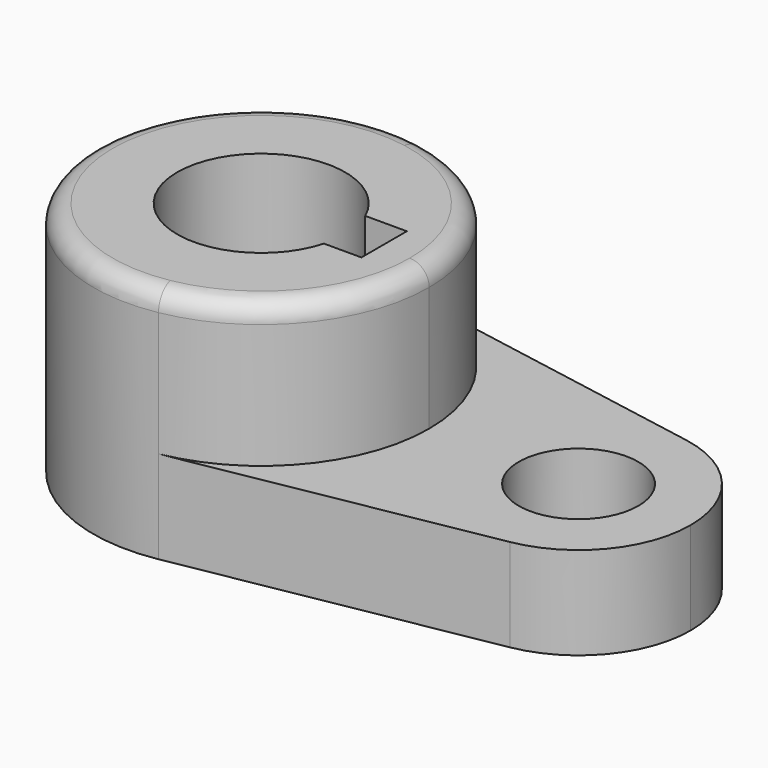
from build123d import *

# Parameters (mm, degrees)
F1_DEPTH = 40.2336
F0_R     = 10.16
F2_DEPTH = 15.7734
F3_R     = 3.302


with BuildPart() as f1:
    # F0 (on Top) → F1 (new body)
    with BuildSketch(Plane.XY):
        with BuildLine():
            ThreePointArc((-25.836789, -21.39759), (-8.963412, -11.60731), (-2.304436, 6.728951))
            ThreePointArc((-2.304436, 6.728951), (-8.963412, 25.065213), (-25.836789, 34.855493))
            ThreePointArc((-25.836789, 34.855493), (-59.454436, 6.728951), (-25.836789, -21.39759))
        make_face()
        with BuildLine():
            ThreePointArc((-17.120772, 2.877743), (-45.129325, 5.692937), (-17.822504, 12.529743))
            Line((-17.822504, 12.529743), (-10.74808, 12.529743))
            Line((-10.74808, 12.529743), (-10.74808, 2.877743))
            Line((-10.74808, 2.877743), (-17.120772, 2.877743))
        make_face(mode=Mode.SUBTRACT)
    extrude(amount=F1_DEPTH)

    # F3
    f3_edges = [f1.edges().sort_by_distance(p)[0] for p in [
        (-35.922083, 34.855493, 40.2336),
    ]]
    fillet(f3_edges, radius=F3_R)


with BuildPart() as f2:
    # F0 (on Top) → F2 (new body)
    with BuildSketch(Plane.XY):
        with BuildLine():
            ThreePointArc((-25.836789, 34.855493), (-8.963412, 25.065213), (-2.304436, 6.728951))
            ThreePointArc((-2.304436, 6.728951), (-8.963412, -11.60731), (-25.836789, -21.39759))
            Line((-25.836789, -21.39759), (26.457329, -12.022076))
            ThreePointArc((26.457329, -12.022076), (4.045564, 6.728951), (26.457329, 25.479979))
            Line((26.457329, 25.479979), (-25.836789, 34.855493))
        make_face()
        with BuildLine():
            ThreePointArc((42.145564, 6.728951), (37.706247, 18.953126), (26.457329, 25.479979))
            ThreePointArc((26.457329, 25.479979), (4.045564, 6.728951), (26.457329, -12.022076))
            ThreePointArc((26.457329, -12.022076), (37.706247, -5.495223), (42.145564, 6.728951))
        make_face()
        with Locations((23.095564, 6.728951)):
            Circle(F0_R, mode=Mode.SUBTRACT)
    extrude(amount=F2_DEPTH)


solid = Compound([f1.part, f2.part])
